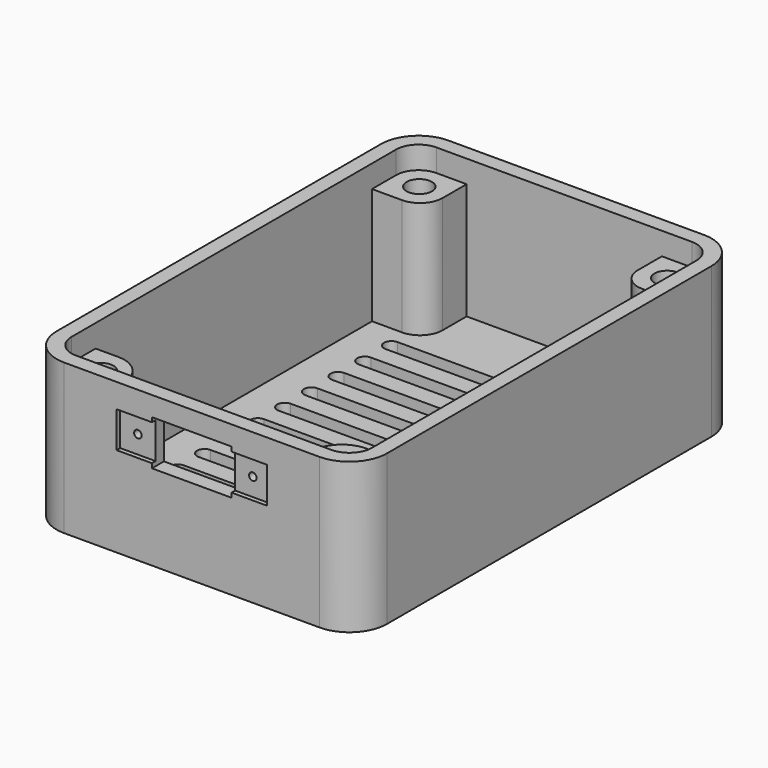
from build123d import *

# Parameters (mm, degrees)
PAD_DEPTH           = 20
POCKET_DEPTH        = 18.5
POCKET001_DEPTH     = 5
LINEARPATTERN_COUNT = 10
LINEARPATTERN_PITCH = 4.444444
PAD001_DEPTH        = 15.5
SKETCH004_R         = 1.69
POCKET002_DEPTH     = 6
SKETCH005_W         = 20
SKETCH005_H         = 4.8
POCKET003_DEPTH     = 0.6
SKETCH006_R         = 0.5
SKETCH006_W         = 10.6
SKETCH006_H         = 6
POCKET004_DEPTH     = 5


with BuildPart() as part:
    # Sketch → Pad (new body)
    with BuildSketch(Plane.XY):
        with BuildLine():
            Line((-17, 32), (17, 32))
            ThreePointArc((22, 27), (20.535534, 30.535534), (17, 32))
            Line((22, 27), (22, -27))
            ThreePointArc((17, -32), (20.535534, -30.535534), (22, -27))
            Line((17, -32), (-17, -32))
            ThreePointArc((-22, -27), (-20.535534, -30.535534), (-17, -32))
            Line((-22, -27), (-22, 27))
            ThreePointArc((-17, 32), (-20.535534, 30.535534), (-22, 27))
        make_face()
    extrude(amount=PAD_DEPTH)

    # Sketch001 (on Face10 of Pad) → Pocket (cut)
    with BuildSketch(Plane.XY.offset(20)):
        with BuildLine():
            Line((-17, 30), (17, 30))
            ThreePointArc((20, 27), (19.12132, 29.12132), (17, 30))
            Line((20, 27), (20, -27))
            ThreePointArc((17, -30), (19.12132, -29.12132), (20, -27))
            Line((17, -30), (-17, -30))
            ThreePointArc((-20, -27), (-19.12132, -29.12132), (-17, -30))
            Line((-20, -27), (-20, 27))
            ThreePointArc((-17, 30), (-19.12132, 29.12132), (-20, 27))
        make_face()
    extrude(amount=-POCKET_DEPTH, mode=Mode.SUBTRACT)

    # Sketch002 (on Face4 of Pocket) → Pocket001 (cut)
    with BuildSketch(Plane(origin=(0, 0, 0), x_dir=(1, 0, 0), z_dir=(0, 0, -1))):
        with BuildLine():
            ThreePointArc((-15, 21), (-16, 20), (-15, 19))
            Line((-15, 19), (15, 19))
            ThreePointArc((15, 19), (16, 20), (15, 21))
            Line((15, 21), (-15, 21))
        make_face()
    pocket001 = extrude(amount=-POCKET001_DEPTH, mode=Mode.SUBTRACT)

    # LinearPattern: Pocket001 ×10
    with Locations(*[(0, i * LINEARPATTERN_PITCH, 0) for i in range(1, LINEARPATTERN_COUNT)]):
        add(pocket001, mode=Mode.SUBTRACT)

    # Sketch003 (on Face59 of LinearPattern) → Pad001 (join)
    with BuildSketch(Plane.XY.offset(1.5)):
        with BuildLine():
            Line((-17, 30), (-13, 30))
            Line((-13, 30), (-13, 26))
            ThreePointArc((-16, 23), (-13.87868, 23.87868), (-13, 26))
            Line((-16, 23), (-20, 23))
            Line((-20, 27), (-20, 23))
            ThreePointArc((-17, 30), (-19.12132, 29.12132), (-20, 27))
        make_face()
        with BuildLine():
            Line((13, 30), (17, 30))
            ThreePointArc((20, 27), (19.12132, 29.12132), (17, 30))
            Line((20, 27), (20, 23))
            Line((20, 23), (16, 23))
            ThreePointArc((13, 26), (13.87868, 23.87868), (16, 23))
            Line((13, 26), (13, 30))
        make_face()
        with BuildLine():
            Line((-21, -23), (-17, -23))
            ThreePointArc((-13, -27), (-14.171573, -24.171573), (-17, -23))
            Line((-13, -27), (-13, -31))
            Line((-13, -31), (-17, -31))
            ThreePointArc((-21, -27), (-19.828427, -29.828427), (-17, -31))
            Line((-21, -27), (-21, -23))
        make_face()
        with BuildLine():
            Line((16, -23), (20, -23))
            Line((20, -23), (20, -27))
            ThreePointArc((16, -31), (18.828427, -29.828427), (20, -27))
            Line((16, -31), (12, -31))
            Line((12, -31), (12, -27))
            ThreePointArc((16, -23), (13.171573, -24.171573), (12, -27))
        make_face()
    extrude(amount=PAD001_DEPTH)

    # Sketch004 (on Face69 of Pad001) → Pocket002 (cut)
    with BuildSketch(Plane.XY.offset(17)):
        with Locations((16.5, 26.5)):
            Circle(SKETCH004_R)
        with Locations((-16.5, 26.5)):
            Circle(SKETCH004_R)
        with Locations((-16.5, -26.5)):
            Circle(SKETCH004_R)
        with Locations((16.5, -26.5)):
            Circle(SKETCH004_R)
    extrude(amount=-POCKET002_DEPTH, mode=Mode.SUBTRACT)

    # Sketch005 (on Face6 of Pocket002) → Pocket003 (cut)
    with BuildSketch(Plane.XZ.offset(32)):
        with Locations((0, 14.4)):
            Rectangle(SKETCH005_W, SKETCH005_H)
    extrude(amount=-POCKET003_DEPTH, mode=Mode.SUBTRACT)

    # Sketch006 (on Face6 of Pocket003) → Pocket004 (cut)
    with BuildSketch(Plane.XZ.offset(32)):
        with Locations((7.65, 14.4)):
            Circle(SKETCH006_R)
        with Locations((-7.65, 14.4)):
            Circle(SKETCH006_R)
        with Locations((0, 14.4)):
            Rectangle(SKETCH006_W, SKETCH006_H)
    extrude(amount=-POCKET004_DEPTH, mode=Mode.SUBTRACT)


solid = part.part
